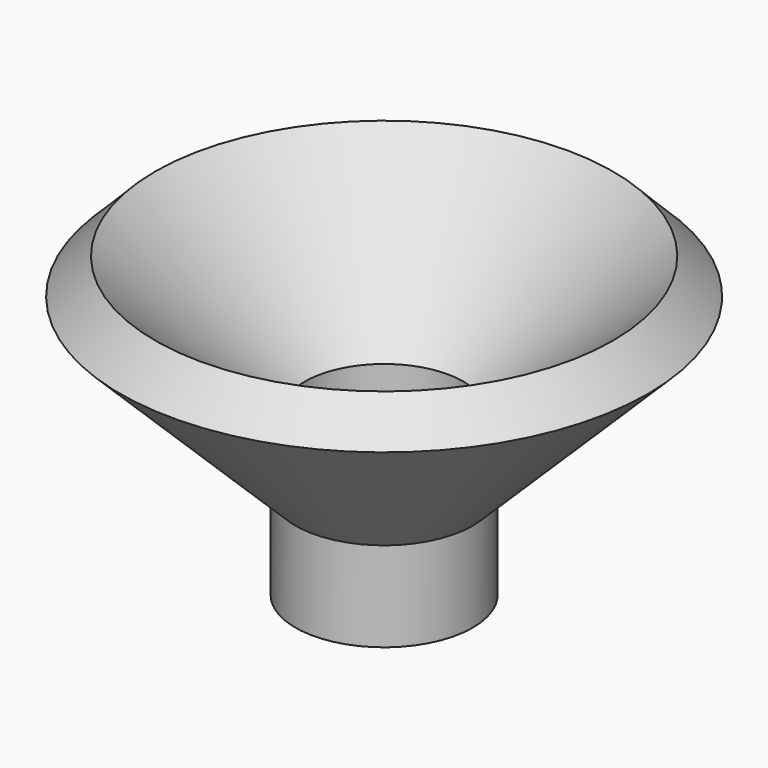
from build123d import *

# Parameters (mm, degrees)
F0_W     = 13.6362006888
F0_H     = 13.8004934415
F2_R     = 12.1985802558
F3_DEPTH = 25.4


with BuildPart() as f1:
    # F0 (on Front) → F1 (revolve)
    with BuildSketch(Plane.XZ):
        with Locations((6.8181003444, 6.9002467208)):
            Rectangle(F0_W, F0_H)
        Polygon((35.1988722524, 45.8633081005), (0, 13.8004934415), (13.6362006888, 13.8004934415), (40.5800193548, 40.4157266021), align=None)
    revolve(axis=Axis((0, 0, 6.9002467208), (0, 0, 1)))

    # F2 (on face) → F3 (cut)
    with BuildSketch(Plane(origin=(0, 0, 0), x_dir=(1, 0, 0), z_dir=(0, 0, -1))):
        Circle(F2_R)
    extrude(amount=-F3_DEPTH, mode=Mode.SUBTRACT)


solid = f1.part
